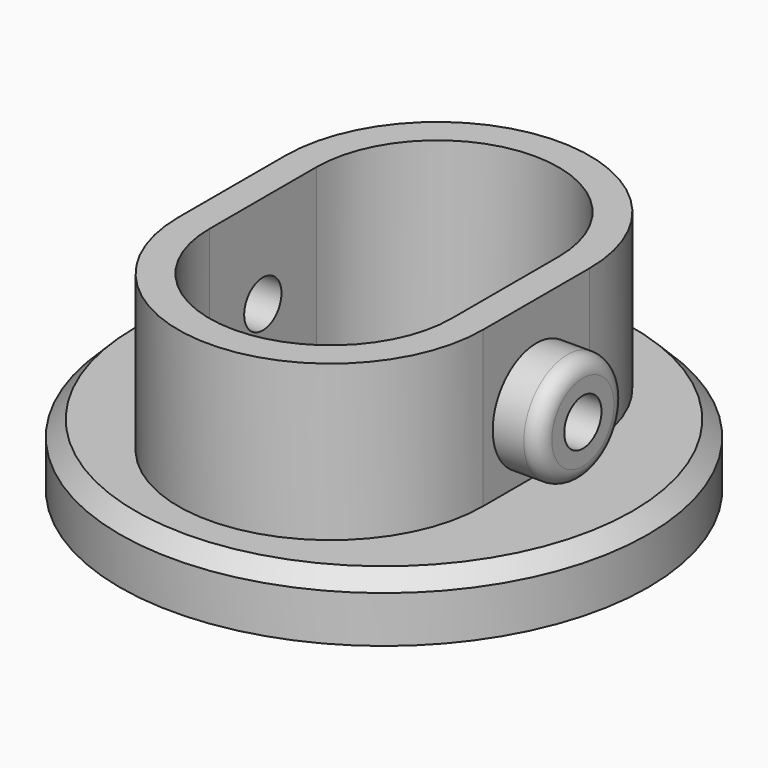
from build123d import *

# Parameters (mm, degrees)
SKETCH_R        = 17
PAD_DEPTH       = 4
CHAMFER_SIZE    = 1
PAD001_DEPTH    = 10
SKETCH002_R     = 3.5
PAD002_DEPTH    = 3
SKETCH003_R     = 1.5
POCKET_DEPTH    = 6
FILLET_R        = 1
SKETCH004_R     = 3.5
PAD003_DEPTH    = 3
SKETCH005_R     = 1.5
POCKET001_DEPTH = 6
FILLET001_R     = 1


with BuildPart() as part:
    # Sketch → Pad (new body)
    with BuildSketch(Plane.XY):
        with Locations((0, 4.3)):
            Circle(SKETCH_R)
        with BuildLine():
            ThreePointArc((7.8, 8.6), (0, 16.4), (-7.8, 8.6))
            Line((-7.8, 8.6), (-7.8, 0))
            ThreePointArc((-7.8, 0), (0, -7.8), (7.8, 0))
            Line((7.8, 0), (7.8, 8.6))
        make_face(mode=Mode.SUBTRACT)
    extrude(amount=PAD_DEPTH)

    # Chamfer
    chamfer_edges = [part.edges().sort_by_distance(p)[0] for p in [
        (-17, 4.3, 4),
    ]]
    chamfer(chamfer_edges, length=CHAMFER_SIZE)

    # Sketch001 (on Face4 of Chamfer) → Pad001 (join)
    with BuildSketch(Plane.XY.offset(4)):
        with BuildLine():
            ThreePointArc((9.8, 8.6), (0, 18.4), (-9.8, 8.6))
            Line((-9.8, 0), (-9.8, 8.6))
            ThreePointArc((-9.8, 0), (0, -9.8), (9.8, 0))
            Line((9.8, 0), (9.8, 8.6))
        make_face()
        with BuildLine():
            ThreePointArc((7.8, 8.6), (0, 16.4), (-7.8, 8.6))
            Line((-7.8, 0), (-7.8, 8.6))
            ThreePointArc((-7.8, 0), (0.000482, -7.8), (7.8, 0.000965))
            Line((7.8, 0.000965), (7.8, 8.6))
        make_face(mode=Mode.SUBTRACT)
    extrude(amount=PAD001_DEPTH)

    # Sketch002 (on Face10 of Pad001) → Pad002 (join)
    with BuildSketch(Plane(origin=(-9.8, 0, 0), x_dir=(0, -1, 0), z_dir=(-1, 0, 0))):
        with Locations((-4.3, 8)):
            Circle(SKETCH002_R)
    extrude(amount=PAD002_DEPTH)

    # Sketch003 (on Face19 of Pad002) → Pocket (cut)
    with BuildSketch(Plane(origin=(-12.8, 0, 0), x_dir=(0, -1, 0), z_dir=(-1, 0, 0))):
        with Locations((-4.3, 8)):
            Circle(SKETCH003_R)
    extrude(amount=-POCKET_DEPTH, mode=Mode.SUBTRACT)

    # Fillet
    fillet_edges = [part.edges().sort_by_distance(p)[0] for p in [
        (-12.8, 7.8, 8),
    ]]
    fillet(fillet_edges, radius=FILLET_R)

    # Sketch004 (on Face10 of Fillet) → Pad003 (join)
    with BuildSketch(Plane.YZ.offset(9.8)):
        with Locations((4.3, 8)):
            Circle(SKETCH004_R)
    extrude(amount=PAD003_DEPTH)

    # Sketch005 (on Face22 of Pad003) → Pocket001 (cut)
    with BuildSketch(Plane.YZ.offset(12.8)):
        with Locations((4.3, 8)):
            Circle(SKETCH005_R)
    extrude(amount=-POCKET001_DEPTH, mode=Mode.SUBTRACT)

    # Fillet001
    fillet001_edges = [part.edges().sort_by_distance(p)[0] for p in [
        (12.8, 0.8, 8),
    ]]
    fillet(fillet001_edges, radius=FILLET001_R)


solid = part.part
